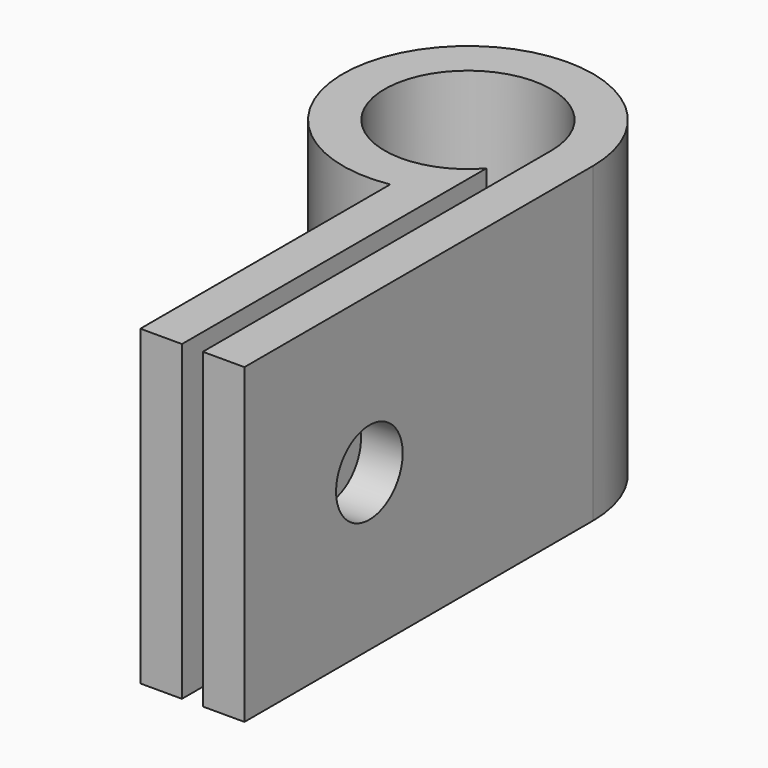
from build123d import *

# Parameters (mm, degrees)
F1_DEPTH = 15
F2_R     = 2
F3_DEPTH = 5
F4_R     = 4
F5_R     = 2.1


with BuildPart() as f1:
    # F0 (on Top) → F1 (new body)
    with BuildSketch(Plane.XY):
        with BuildLine():
            ThreePointArc((3, -2.645751), (-3.741657, 1.414214), (4, 0))
            Line((4, 0), (4, -20.91608))
            Line((4, -20.91608), (6, -20.91608))
            Line((6, -20.91608), (6, 0))
            ThreePointArc((6, 0), (-4.582576, 3.872983), (1, -5.91608))
            Line((1, -5.91608), (1, -20.91608))
            Line((1, -20.91608), (3, -20.91608))
            Line((3, -20.91608), (3, -2.645751))
        make_face()
    extrude(amount=F1_DEPTH)

    # F2 (on face) → F3 (cut, through all)
    with BuildSketch(Plane(origin=(1, 0, 0), x_dir=(0, -1, 0), z_dir=(-1, 0, 0))):
        with Locations((13.41608, 7.5)):
            Circle(F2_R)
    extrude(amount=-F3_DEPTH, mode=Mode.SUBTRACT)

    # F4 (on face) → F6 section 0
    with BuildSketch(Plane(origin=(1, 0, 0), x_dir=(0, -1, 0), z_dir=(-1, 0, 0))):
        with Locations((13.41608, 7.5)):
            Circle(F4_R)
    # F5 (on face) → F6 section 1
    with BuildSketch(Plane.YZ.offset(3)):
        with Locations((-13.41608, 7.5)):
            Circle(F5_R)
    loft(mode=Mode.SUBTRACT)


solid = f1.part
